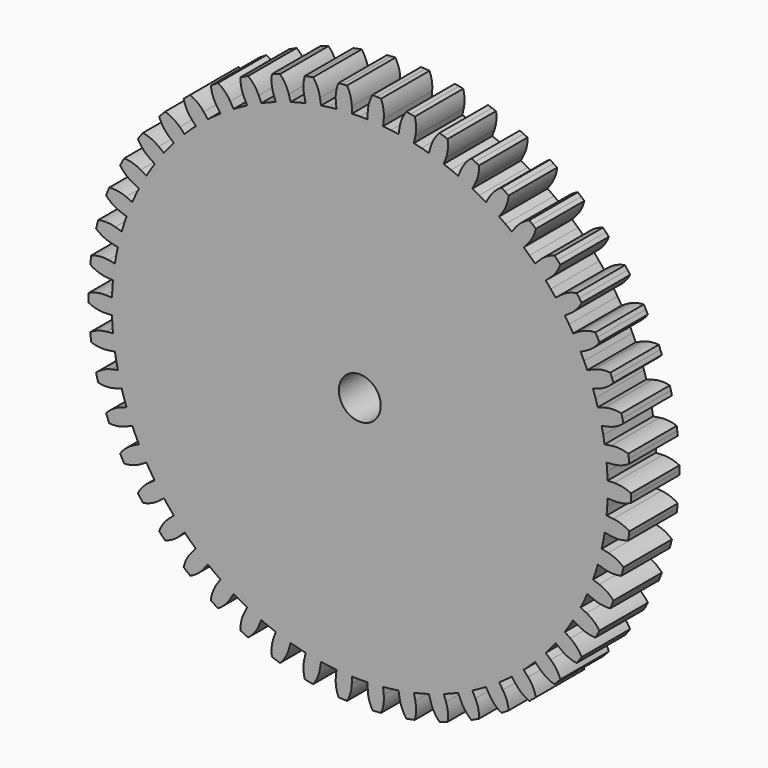
from build123d import *

# Parameters (mm, degrees)
F1_DEPTH = 2.8702


with BuildPart() as f1:
    # F0 (on Front) → F1 (new body, symmetric)
    with BuildSketch(Plane.XZ):
        with BuildLine():
            ThreePointArc((25.7048, 0), (25.704007, 0.201883), (25.701629, 0.403753))
            ThreePointArc((25.701629, 0.403753), (24.932245, 0.680926), (24.118093, 0.757942))
            Line((24.118093, 0.757942), (23.483407, 0.737996))
            ThreePointArc((23.483407, 0.737996), (23.468918, 1.106766), (23.448638, 1.475263))
            Line((23.448638, 1.475263), (1.980459, 0.1246))
            ThreePointArc((1.980459, 0.1246), (1.983396, 0.062331), (1.984375, 0))
            Line((1.984375, 0), (25.7048, 0))
        make_face()
        with BuildLine():
            ThreePointArc((25.701629, -0.403753), (25.704007, -0.201883), (25.7048, 0))
            Line((25.7048, 0), (1.984375, 0))
            ThreePointArc((1.984375, 0), (-1.983396, -0.062331), (1.980459, 0.1246))
            Line((1.980459, 0.1246), (23.448638, 1.475263))
            ThreePointArc((23.448638, 1.475263), (23.422573, 1.843396), (23.390728, 2.211075))
            Line((23.390728, 2.211075), (24.02291, 2.270834))
            ThreePointArc((24.02291, 2.270834), (24.82099, 2.449283), (25.549568, 2.820699))
            ThreePointArc((25.549568, 2.820699), (25.526626, 3.021275), (25.50211, 3.221666))
            ThreePointArc((25.50211, 3.221666), (25.476021, 3.421857), (25.44836, 3.621838))
            ThreePointArc((25.44836, 3.621838), (24.650305, 3.800395), (23.83292, 3.774764))
            Line((23.83292, 3.774764), (23.205738, 3.675428))
            ThreePointArc((23.205738, 3.675428), (23.145144, 4.039474), (23.078839, 4.402524))
            ThreePointArc((23.078839, 4.402524), (23.00684, 4.764488), (22.929164, 5.125275))
            Line((22.929164, 5.125275), (23.548871, 5.263796))
            ThreePointArc((23.548871, 5.263796), (24.318293, 5.540864), (24.994574, 6.000666))
            ThreePointArc((24.994574, 6.000666), (24.946675, 6.196786), (24.897236, 6.392524))
            ThreePointArc((24.897236, 6.392524), (24.846262, 6.587867), (24.793756, 6.782804))
            ThreePointArc((24.793756, 6.782804), (23.979614, 6.859931), (23.171887, 6.732055))
            Line((23.171887, 6.732055), (22.5621, 6.554896))
            ThreePointArc((22.5621, 6.554896), (22.456357, 6.908477), (22.345073, 7.260354))
            ThreePointArc((22.345073, 7.260354), (22.228276, 7.61044), (22.105994, 7.958647))
            Line((22.105994, 7.958647), (22.703453, 8.173746))
            ThreePointArc((22.703453, 8.173746), (23.432081, 8.545063), (24.045402, 9.086))
            ThreePointArc((24.045402, 9.086), (23.9733, 9.27457), (23.899719, 9.462568))
            ThreePointArc((23.899719, 9.462568), (23.824663, 9.649982), (23.748139, 9.836801))
            ThreePointArc((23.748139, 9.836801), (22.93075, 9.81128), (22.145419, 9.583179))
            Line((22.145419, 9.583179), (21.562645, 9.33099))
            ThreePointArc((21.562645, 9.33099), (21.41342, 9.66853), (21.258912, 10.003684))
            ThreePointArc((21.258912, 10.003684), (21.099158, 10.336371), (20.934198, 10.666507))
            Line((20.934198, 10.666507), (21.499987, 10.954791))
            ThreePointArc((21.499987, 10.954791), (22.176332, 11.414501), (22.717019, 12.028042))
            ThreePointArc((22.717019, 12.028042), (22.621851, 12.206089), (22.525288, 12.383382))
            ThreePointArc((22.525288, 12.383382), (22.427335, 12.559911), (22.327999, 12.735666))
            ThreePointArc((22.327999, 12.735666), (21.520255, 12.607901), (20.769705, 12.283169))
            Line((20.769705, 12.283169), (20.223134, 11.959928))
            ThreePointArc((20.223134, 11.959928), (20.032781, 12.276104), (19.837485, 12.589251))
            ThreePointArc((19.837485, 12.589251), (19.637294, 12.899291), (19.432258, 13.206149))
            Line((19.432258, 13.206149), (19.957454, 13.563072))
            ThreePointArc((19.957454, 13.563072), (20.570848, 14.103926), (21.030375, 14.780395))
            ThreePointArc((21.030375, 14.780395), (20.913642, 14.94511), (20.79562, 15.108902))
            ThreePointArc((20.79562, 15.108902), (20.676315, 15.271763), (20.555734, 15.433682))
            ThreePointArc((20.555734, 15.433682), (19.770372, 15.205687), (19.06644, 14.789447))
            Line((19.06644, 14.789447), (18.564692, 14.400251))
            ThreePointArc((18.564692, 14.400251), (18.336212, 14.690076), (18.103209, 14.976277))
            ThreePointArc((18.103209, 14.976277), (17.865738, 15.258782), (17.62386, 15.537522))
            Line((17.62386, 15.537522), (18.10018, 15.957455))
            ThreePointArc((18.10018, 15.957455), (18.640951, 16.570923), (19.012069, 17.299652))
            ThreePointArc((19.012069, 17.299652), (18.875613, 17.448437), (18.737993, 17.596146))
            ThreePointArc((18.737993, 17.596146), (18.599216, 17.74277), (18.459293, 17.888299))
            ThreePointArc((18.459293, 17.888299), (17.708699, 17.56367), (17.062487, 17.062487))
            Line((17.062487, 17.062487), (16.613474, 16.613474))
            ThreePointArc((16.613474, 16.613474), (16.350471, 16.872377), (16.083434, 17.127118))
            ThreePointArc((16.083434, 17.127118), (15.812429, 17.377633), (15.537522, 17.62386))
            Line((15.537522, 17.62386), (15.957455, 18.10018))
            ThreePointArc((15.957455, 18.10018), (16.417074, 18.776587), (16.693932, 19.546083))
            ThreePointArc((16.693932, 19.546083), (16.539904, 19.676593), (16.384856, 19.805889))
            ThreePointArc((16.384856, 19.805889), (16.228797, 19.933963), (16.071737, 20.060808))
            ThreePointArc((16.071737, 20.060808), (15.367749, 19.644664), (14.789447, 19.06644))
            Line((14.789447, 19.06644), (14.400251, 18.564692))
            ThreePointArc((14.400251, 18.564692), (14.106873, 18.788591), (13.810015, 19.007854))
            ThreePointArc((13.810015, 19.007854), (13.509748, 19.222428), (13.206149, 19.432258))
            Line((13.206149, 19.432258), (13.563072, 19.957454))
            ThreePointArc((13.563072, 19.957454), (13.93429, 20.686133), (14.112522, 21.484261))
            ThreePointArc((14.112522, 21.484261), (13.943351, 21.594437), (13.773321, 21.70328))
            ThreePointArc((13.773321, 21.70328), (13.60244, 21.810785), (13.430721, 21.916945))
            ThreePointArc((13.430721, 21.916945), (12.784441, 21.415849), (12.283169, 20.769705))
            Line((12.283169, 20.769705), (11.959928, 20.223134))
            ThreePointArc((11.959928, 20.223134), (11.640801, 20.408497), (11.318803, 20.588825))
            ThreePointArc((11.318803, 20.588825), (10.994011, 20.764073), (10.666507, 20.934198))
            Line((10.666507, 20.934198), (10.954791, 21.499987))
            ThreePointArc((10.954791, 21.499987), (11.231754, 22.269446), (11.308548, 23.083619))
            ThreePointArc((11.308548, 23.083619), (11.126903, 23.171723), (10.944572, 23.258398))
            ThreePointArc((10.944572, 23.258398), (10.761565, 23.343639), (10.577894, 23.427439))
            ThreePointArc((10.577894, 23.427439), (9.999514, 22.849294), (9.583179, 22.145419))
            Line((9.583179, 22.145419), (9.33099, 21.562645))
            ThreePointArc((9.33099, 21.562645), (8.991147, 21.70655), (8.649086, 21.845099))
            ThreePointArc((8.649086, 21.845099), (8.304891, 21.978258), (7.958647, 22.105994))
            Line((7.958647, 22.105994), (8.173746, 22.703453))
            ThreePointArc((8.173746, 22.703453), (8.352086, 23.501557), (8.326232, 24.318935))
            ThreePointArc((8.326232, 24.318935), (8.134977, 24.383578), (7.94322, 24.446718))
            ThreePointArc((7.94322, 24.446718), (7.750973, 24.508349), (7.558248, 24.568468))
            ThreePointArc((7.558248, 24.568468), (7.056889, 23.922392), (6.732055, 23.171887))
            Line((6.732055, 23.171887), (6.554896, 22.5621))
            ThreePointArc((6.554896, 22.5621), (6.199697, 22.662277), (5.842969, 22.756861))
            ThreePointArc((5.842969, 22.756861), (5.484799, 22.845831), (5.125275, 22.929164))
            Line((5.125275, 22.929164), (5.263796, 23.548871))
            ThreePointArc((5.263796, 23.548871), (5.340702, 24.363034), (5.212607, 25.170727))
            ThreePointArc((5.212607, 25.170727), (5.014758, 25.210889), (4.816599, 25.249497))
            ThreePointArc((4.816599, 25.249497), (4.618144, 25.286548), (4.419403, 25.322038))
            ThreePointArc((4.419403, 25.322038), (4.002972, 24.61822), (3.774764, 23.83292))
            Line((3.774764, 23.83292), (3.675428, 23.205738))
            ThreePointArc((3.675428, 23.205738), (3.310474, 23.260606), (2.944704, 23.309735))
            ThreePointArc((2.944704, 23.309735), (2.578208, 23.353113), (2.211075, 23.390728))
            Line((2.211075, 23.390728), (2.270834, 24.02291))
            ThreePointArc((2.270834, 24.02291), (2.245091, 24.840292), (2.016775, 25.625561))
            ThreePointArc((2.016775, 25.625561), (1.815453, 25.64061), (1.614018, 25.654077))
            ThreePointArc((1.614018, 25.654077), (1.412483, 25.665963), (1.210862, 25.676264))
            ThreePointArc((1.210862, 25.676264), (0.885927, 24.925803), (0.757942, 24.118093))
            Line((0.757942, 24.118093), (0.737996, 23.483407))
            ThreePointArc((0.737996, 23.483407), (0.369043, 23.492101), (0, 23.495))
            ThreePointArc((0, 23.495), (-0.369043, 23.492101), (-0.737996, 23.483407))
            Line((-0.737996, 23.483407), (-0.757942, 24.118093))
            ThreePointArc((-0.757942, 24.118093), (-0.885927, 24.925803), (-1.210862, 25.676264))
            ThreePointArc((-1.210862, 25.676264), (-1.412483, 25.665963), (-1.614018, 25.654077))
            ThreePointArc((-1.614018, 25.654077), (-1.815453, 25.64061), (-2.016775, 25.625561))
            ThreePointArc((-2.016775, 25.625561), (-2.245091, 24.840292), (-2.270834, 24.02291))
            Line((-2.270834, 24.02291), (-2.211075, 23.390728))
            ThreePointArc((-2.211075, 23.390728), (-2.578208, 23.353113), (-2.944704, 23.309735))
            ThreePointArc((-2.944704, 23.309735), (-3.310474, 23.260606), (-3.675428, 23.205738))
            Line((-3.675428, 23.205738), (-3.774764, 23.83292))
            ThreePointArc((-3.774764, 23.83292), (-4.002972, 24.61822), (-4.419403, 25.322038))
            ThreePointArc((-4.419403, 25.322038), (-4.618144, 25.286548), (-4.816599, 25.249497))
            ThreePointArc((-4.816599, 25.249497), (-5.014758, 25.210889), (-5.212607, 25.170727))
            ThreePointArc((-5.212607, 25.170727), (-5.340702, 24.363034), (-5.263796, 23.548871))
            Line((-5.263796, 23.548871), (-5.125275, 22.929164))
            ThreePointArc((-5.125275, 22.929164), (-5.484799, 22.845831), (-5.842969, 22.756861))
            ThreePointArc((-5.842969, 22.756861), (-6.199697, 22.662277), (-6.554896, 22.5621))
            Line((-6.554896, 22.5621), (-6.732055, 23.171887))
            ThreePointArc((-6.732055, 23.171887), (-7.056889, 23.922392), (-7.558248, 24.568468))
            ThreePointArc((-7.558248, 24.568468), (-7.750973, 24.508349), (-7.94322, 24.446718))
            ThreePointArc((-7.94322, 24.446718), (-8.134977, 24.383578), (-8.326232, 24.318935))
            ThreePointArc((-8.326232, 24.318935), (-8.352086, 23.501557), (-8.173746, 22.703453))
            Line((-8.173746, 22.703453), (-7.958647, 22.105994))
            ThreePointArc((-7.958647, 22.105994), (-8.304891, 21.978258), (-8.649086, 21.845099))
            ThreePointArc((-8.649086, 21.845099), (-8.991147, 21.70655), (-9.33099, 21.562645))
            Line((-9.33099, 21.562645), (-9.583179, 22.145419))
            ThreePointArc((-9.583179, 22.145419), (-9.999514, 22.849294), (-10.577894, 23.427439))
            ThreePointArc((-10.577894, 23.427439), (-10.761565, 23.343639), (-10.944572, 23.258398))
            ThreePointArc((-10.944572, 23.258398), (-11.126903, 23.171723), (-11.308548, 23.083619))
            ThreePointArc((-11.308548, 23.083619), (-11.231754, 22.269446), (-10.954791, 21.499987))
            Line((-10.954791, 21.499987), (-10.666507, 20.934198))
            ThreePointArc((-10.666507, 20.934198), (-10.994011, 20.764073), (-11.318803, 20.588825))
            ThreePointArc((-11.318803, 20.588825), (-11.640801, 20.408497), (-11.959928, 20.223134))
            Line((-11.959928, 20.223134), (-12.283169, 20.769705))
            ThreePointArc((-12.283169, 20.769705), (-12.784441, 21.415849), (-13.430721, 21.916945))
            ThreePointArc((-13.430721, 21.916945), (-13.60244, 21.810785), (-13.773321, 21.70328))
            ThreePointArc((-13.773321, 21.70328), (-13.943351, 21.594437), (-14.112522, 21.484261))
            ThreePointArc((-14.112522, 21.484261), (-13.93429, 20.686133), (-13.563072, 19.957454))
            Line((-13.563072, 19.957454), (-13.206149, 19.432258))
            ThreePointArc((-13.206149, 19.432258), (-13.509748, 19.222428), (-13.810015, 19.007854))
            ThreePointArc((-13.810015, 19.007854), (-14.106873, 18.788591), (-14.400251, 18.564692))
            Line((-14.400251, 18.564692), (-14.789447, 19.06644))
            ThreePointArc((-14.789447, 19.06644), (-15.367749, 19.644664), (-16.071737, 20.060808))
            ThreePointArc((-16.071737, 20.060808), (-16.228797, 19.933963), (-16.384856, 19.805889))
            ThreePointArc((-16.384856, 19.805889), (-16.539904, 19.676593), (-16.693932, 19.546083))
            ThreePointArc((-16.693932, 19.546083), (-16.417074, 18.776587), (-15.957455, 18.10018))
            Line((-15.957455, 18.10018), (-15.537522, 17.62386))
            ThreePointArc((-15.537522, 17.62386), (-15.812429, 17.377633), (-16.083434, 17.127118))
            ThreePointArc((-16.083434, 17.127118), (-16.350471, 16.872377), (-16.613474, 16.613474))
            Line((-16.613474, 16.613474), (-17.062487, 17.062487))
            ThreePointArc((-17.062487, 17.062487), (-17.708699, 17.56367), (-18.459293, 17.888299))
            ThreePointArc((-18.459293, 17.888299), (-18.599216, 17.74277), (-18.737993, 17.596146))
            ThreePointArc((-18.737993, 17.596146), (-18.875613, 17.448437), (-19.012069, 17.299652))
            ThreePointArc((-19.012069, 17.299652), (-18.640951, 16.570923), (-18.10018, 15.957455))
            Line((-18.10018, 15.957455), (-17.62386, 15.537522))
            ThreePointArc((-17.62386, 15.537522), (-17.865738, 15.258782), (-18.103209, 14.976277))
            ThreePointArc((-18.103209, 14.976277), (-18.336212, 14.690076), (-18.564692, 14.400251))
            Line((-18.564692, 14.400251), (-19.06644, 14.789447))
            ThreePointArc((-19.06644, 14.789447), (-19.770372, 15.205687), (-20.555734, 15.433682))
            ThreePointArc((-20.555734, 15.433682), (-20.676315, 15.271763), (-20.79562, 15.108902))
            ThreePointArc((-20.79562, 15.108902), (-20.913642, 14.94511), (-21.030375, 14.780395))
            ThreePointArc((-21.030375, 14.780395), (-20.570848, 14.103926), (-19.957454, 13.563072))
            Line((-19.957454, 13.563072), (-19.432258, 13.206149))
            ThreePointArc((-19.432258, 13.206149), (-19.637294, 12.899291), (-19.837485, 12.589251))
            ThreePointArc((-19.837485, 12.589251), (-20.032781, 12.276104), (-20.223134, 11.959928))
            Line((-20.223134, 11.959928), (-20.769705, 12.283169))
            ThreePointArc((-20.769705, 12.283169), (-21.520255, 12.607901), (-22.327999, 12.735666))
            ThreePointArc((-22.327999, 12.735666), (-22.427335, 12.559911), (-22.525288, 12.383382))
            ThreePointArc((-22.525288, 12.383382), (-22.621851, 12.206089), (-22.717019, 12.028042))
            ThreePointArc((-22.717019, 12.028042), (-22.176332, 11.414501), (-21.499987, 10.954791))
            Line((-21.499987, 10.954791), (-20.934198, 10.666507))
            ThreePointArc((-20.934198, 10.666507), (-21.099158, 10.336371), (-21.258912, 10.003684))
            ThreePointArc((-21.258912, 10.003684), (-21.41342, 9.66853), (-21.562645, 9.33099))
            Line((-21.562645, 9.33099), (-22.145419, 9.583179))
            ThreePointArc((-22.145419, 9.583179), (-22.93075, 9.81128), (-23.748139, 9.836801))
            ThreePointArc((-23.748139, 9.836801), (-23.824663, 9.649982), (-23.899719, 9.462568))
            ThreePointArc((-23.899719, 9.462568), (-23.9733, 9.27457), (-24.045402, 9.086))
            ThreePointArc((-24.045402, 9.086), (-23.432081, 8.545063), (-22.703453, 8.173746))
            Line((-22.703453, 8.173746), (-22.105994, 7.958647))
            ThreePointArc((-22.105994, 7.958647), (-22.228276, 7.61044), (-22.345073, 7.260354))
            ThreePointArc((-22.345073, 7.260354), (-22.456357, 6.908477), (-22.5621, 6.554896))
            Line((-22.5621, 6.554896), (-23.171887, 6.732055))
            ThreePointArc((-23.171887, 6.732055), (-23.979614, 6.859931), (-24.793756, 6.782804))
            ThreePointArc((-24.793756, 6.782804), (-24.846262, 6.587867), (-24.897236, 6.392524))
            ThreePointArc((-24.897236, 6.392524), (-24.946675, 6.196786), (-24.994574, 6.000666))
            ThreePointArc((-24.994574, 6.000666), (-24.318293, 5.540864), (-23.548871, 5.263796))
            Line((-23.548871, 5.263796), (-22.929164, 5.125275))
            ThreePointArc((-22.929164, 5.125275), (-23.00684, 4.764488), (-23.078839, 4.402524))
            ThreePointArc((-23.078839, 4.402524), (-23.145144, 4.039474), (-23.205738, 3.675428))
            Line((-23.205738, 3.675428), (-23.83292, 3.774764))
            ThreePointArc((-23.83292, 3.774764), (-24.650305, 3.800395), (-25.44836, 3.621838))
            ThreePointArc((-25.44836, 3.621838), (-25.476021, 3.421857), (-25.50211, 3.221666))
            ThreePointArc((-25.50211, 3.221666), (-25.526626, 3.021275), (-25.549568, 2.820699))
            ThreePointArc((-25.549568, 2.820699), (-24.82099, 2.449283), (-24.02291, 2.270834))
            Line((-24.02291, 2.270834), (-23.390728, 2.211075))
            ThreePointArc((-23.390728, 2.211075), (-23.422573, 1.843396), (-23.448638, 1.475263))
            ThreePointArc((-23.448638, 1.475263), (-23.468918, 1.106766), (-23.483407, 0.737996))
            Line((-23.483407, 0.737996), (-24.118093, 0.757942))
            ThreePointArc((-24.118093, 0.757942), (-24.932245, 0.680926), (-25.701629, 0.403753))
            ThreePointArc((-25.701629, 0.403753), (-25.704007, 0.201883), (-25.7048, 0))
            ThreePointArc((-25.7048, 0), (-25.704007, -0.201883), (-25.701629, -0.403753))
            ThreePointArc((-25.701629, -0.403753), (-24.932245, -0.680926), (-24.118093, -0.757942))
            Line((-24.118093, -0.757942), (-23.483407, -0.737996))
            ThreePointArc((-23.483407, -0.737996), (-23.468918, -1.106766), (-23.448638, -1.475263))
            ThreePointArc((-23.448638, -1.475263), (-23.422573, -1.843396), (-23.390728, -2.211075))
            Line((-23.390728, -2.211075), (-24.02291, -2.270834))
            ThreePointArc((-24.02291, -2.270834), (-24.82099, -2.449283), (-25.549568, -2.820699))
            ThreePointArc((-25.549568, -2.820699), (-25.526626, -3.021275), (-25.50211, -3.221666))
            ThreePointArc((-25.50211, -3.221666), (-25.476021, -3.421857), (-25.44836, -3.621838))
            ThreePointArc((-25.44836, -3.621838), (-24.650305, -3.800395), (-23.83292, -3.774764))
            Line((-23.83292, -3.774764), (-23.205738, -3.675428))
            ThreePointArc((-23.205738, -3.675428), (-23.145144, -4.039474), (-23.078839, -4.402524))
            ThreePointArc((-23.078839, -4.402524), (-23.00684, -4.764488), (-22.929164, -5.125275))
            Line((-22.929164, -5.125275), (-23.548871, -5.263796))
            ThreePointArc((-23.548871, -5.263796), (-24.318293, -5.540864), (-24.994574, -6.000666))
            ThreePointArc((-24.994574, -6.000666), (-24.946675, -6.196786), (-24.897236, -6.392524))
            ThreePointArc((-24.897236, -6.392524), (-24.846262, -6.587867), (-24.793756, -6.782804))
            ThreePointArc((-24.793756, -6.782804), (-23.979614, -6.859931), (-23.171887, -6.732055))
            Line((-23.171887, -6.732055), (-22.5621, -6.554896))
            ThreePointArc((-22.5621, -6.554896), (-22.456357, -6.908477), (-22.345073, -7.260354))
            ThreePointArc((-22.345073, -7.260354), (-22.228276, -7.61044), (-22.105994, -7.958647))
            Line((-22.105994, -7.958647), (-22.703453, -8.173746))
            ThreePointArc((-22.703453, -8.173746), (-23.432081, -8.545063), (-24.045402, -9.086))
            ThreePointArc((-24.045402, -9.086), (-23.9733, -9.27457), (-23.899719, -9.462568))
            ThreePointArc((-23.899719, -9.462568), (-23.824663, -9.649982), (-23.748139, -9.836801))
            ThreePointArc((-23.748139, -9.836801), (-22.93075, -9.81128), (-22.145419, -9.583179))
            Line((-22.145419, -9.583179), (-21.562645, -9.33099))
            ThreePointArc((-21.562645, -9.33099), (-21.41342, -9.66853), (-21.258912, -10.003684))
            ThreePointArc((-21.258912, -10.003684), (-21.099158, -10.336371), (-20.934198, -10.666507))
            Line((-20.934198, -10.666507), (-21.499987, -10.954791))
            ThreePointArc((-21.499987, -10.954791), (-22.176332, -11.414501), (-22.717019, -12.028042))
            ThreePointArc((-22.717019, -12.028042), (-22.621851, -12.206089), (-22.525288, -12.383382))
            ThreePointArc((-22.525288, -12.383382), (-22.427335, -12.559911), (-22.327999, -12.735666))
            ThreePointArc((-22.327999, -12.735666), (-21.520255, -12.607901), (-20.769705, -12.283169))
            Line((-20.769705, -12.283169), (-20.223134, -11.959928))
            ThreePointArc((-20.223134, -11.959928), (-20.032781, -12.276104), (-19.837485, -12.589251))
            ThreePointArc((-19.837485, -12.589251), (-19.637294, -12.899291), (-19.432258, -13.206149))
            Line((-19.432258, -13.206149), (-19.957454, -13.563072))
            ThreePointArc((-19.957454, -13.563072), (-20.570848, -14.103926), (-21.030375, -14.780395))
            ThreePointArc((-21.030375, -14.780395), (-20.913642, -14.94511), (-20.79562, -15.108902))
            ThreePointArc((-20.79562, -15.108902), (-20.676315, -15.271763), (-20.555734, -15.433682))
            ThreePointArc((-20.555734, -15.433682), (-19.770372, -15.205687), (-19.06644, -14.789447))
            Line((-19.06644, -14.789447), (-18.564692, -14.400251))
            ThreePointArc((-18.564692, -14.400251), (-18.336212, -14.690076), (-18.103209, -14.976277))
            ThreePointArc((-18.103209, -14.976277), (-17.865738, -15.258782), (-17.62386, -15.537522))
            Line((-17.62386, -15.537522), (-18.10018, -15.957455))
            ThreePointArc((-18.10018, -15.957455), (-18.640951, -16.570923), (-19.012069, -17.299652))
            ThreePointArc((-19.012069, -17.299652), (-18.875613, -17.448437), (-18.737993, -17.596146))
            ThreePointArc((-18.737993, -17.596146), (-18.599216, -17.74277), (-18.459293, -17.888299))
            ThreePointArc((-18.459293, -17.888299), (-17.708699, -17.56367), (-17.062487, -17.062487))
            Line((-17.062487, -17.062487), (-16.613474, -16.613474))
            ThreePointArc((-16.613474, -16.613474), (-16.350471, -16.872377), (-16.083434, -17.127118))
            ThreePointArc((-16.083434, -17.127118), (-15.812429, -17.377633), (-15.537522, -17.62386))
            Line((-15.537522, -17.62386), (-15.957455, -18.10018))
            ThreePointArc((-15.957455, -18.10018), (-16.417074, -18.776587), (-16.693932, -19.546083))
            ThreePointArc((-16.693932, -19.546083), (-16.539904, -19.676593), (-16.384856, -19.805889))
            ThreePointArc((-16.384856, -19.805889), (-16.228797, -19.933963), (-16.071737, -20.060808))
            ThreePointArc((-16.071737, -20.060808), (-15.367749, -19.644664), (-14.789447, -19.06644))
            Line((-14.789447, -19.06644), (-14.400251, -18.564692))
            ThreePointArc((-14.400251, -18.564692), (-14.106873, -18.788591), (-13.810015, -19.007854))
            ThreePointArc((-13.810015, -19.007854), (-13.509748, -19.222428), (-13.206149, -19.432258))
            Line((-13.206149, -19.432258), (-13.563072, -19.957454))
            ThreePointArc((-13.563072, -19.957454), (-13.93429, -20.686133), (-14.112522, -21.484261))
            ThreePointArc((-14.112522, -21.484261), (-13.943351, -21.594437), (-13.773321, -21.70328))
            ThreePointArc((-13.773321, -21.70328), (-13.60244, -21.810785), (-13.430721, -21.916945))
            ThreePointArc((-13.430721, -21.916945), (-12.784441, -21.415849), (-12.283169, -20.769705))
            Line((-12.283169, -20.769705), (-11.959928, -20.223134))
            ThreePointArc((-11.959928, -20.223134), (-11.640801, -20.408497), (-11.318803, -20.588825))
            ThreePointArc((-11.318803, -20.588825), (-10.994011, -20.764073), (-10.666507, -20.934198))
            Line((-10.666507, -20.934198), (-10.954791, -21.499987))
            ThreePointArc((-10.954791, -21.499987), (-11.231754, -22.269446), (-11.308548, -23.083619))
            ThreePointArc((-11.308548, -23.083619), (-11.126903, -23.171723), (-10.944572, -23.258398))
            ThreePointArc((-10.944572, -23.258398), (-10.761565, -23.343639), (-10.577894, -23.427439))
            ThreePointArc((-10.577894, -23.427439), (-9.999514, -22.849294), (-9.583179, -22.145419))
            Line((-9.583179, -22.145419), (-9.33099, -21.562645))
            ThreePointArc((-9.33099, -21.562645), (-8.991147, -21.70655), (-8.649086, -21.845099))
            ThreePointArc((-8.649086, -21.845099), (-8.304891, -21.978258), (-7.958647, -22.105994))
            Line((-7.958647, -22.105994), (-8.173746, -22.703453))
            ThreePointArc((-8.173746, -22.703453), (-8.352086, -23.501557), (-8.326232, -24.318935))
            ThreePointArc((-8.326232, -24.318935), (-8.134977, -24.383578), (-7.94322, -24.446718))
            ThreePointArc((-7.94322, -24.446718), (-7.750973, -24.508349), (-7.558248, -24.568468))
            ThreePointArc((-7.558248, -24.568468), (-7.056889, -23.922392), (-6.732055, -23.171887))
            Line((-6.732055, -23.171887), (-6.554896, -22.5621))
            ThreePointArc((-6.554896, -22.5621), (-6.199697, -22.662277), (-5.842969, -22.756861))
            ThreePointArc((-5.842969, -22.756861), (-5.484799, -22.845831), (-5.125275, -22.929164))
            Line((-5.125275, -22.929164), (-5.263796, -23.548871))
            ThreePointArc((-5.263796, -23.548871), (-5.340702, -24.363034), (-5.212607, -25.170727))
            ThreePointArc((-5.212607, -25.170727), (-5.014758, -25.210889), (-4.816599, -25.249497))
            ThreePointArc((-4.816599, -25.249497), (-4.618144, -25.286548), (-4.419403, -25.322038))
            ThreePointArc((-4.419403, -25.322038), (-4.002972, -24.61822), (-3.774764, -23.83292))
            Line((-3.774764, -23.83292), (-3.675428, -23.205738))
            ThreePointArc((-3.675428, -23.205738), (-3.310474, -23.260606), (-2.944704, -23.309735))
            ThreePointArc((-2.944704, -23.309735), (-2.578208, -23.353113), (-2.211075, -23.390728))
            Line((-2.211075, -23.390728), (-2.270834, -24.02291))
            ThreePointArc((-2.270834, -24.02291), (-2.245091, -24.840292), (-2.016775, -25.625561))
            ThreePointArc((-2.016775, -25.625561), (-1.815453, -25.64061), (-1.614018, -25.654077))
            ThreePointArc((-1.614018, -25.654077), (-1.412483, -25.665963), (-1.210862, -25.676264))
            ThreePointArc((-1.210862, -25.676264), (-0.885927, -24.925803), (-0.757942, -24.118093))
            Line((-0.757942, -24.118093), (-0.737996, -23.483407))
            ThreePointArc((-0.737996, -23.483407), (-0.369043, -23.492101), (0, -23.495))
            ThreePointArc((0, -23.495), (0.369043, -23.492101), (0.737996, -23.483407))
            Line((0.737996, -23.483407), (0.757942, -24.118093))
            ThreePointArc((0.757942, -24.118093), (0.885927, -24.925803), (1.210862, -25.676264))
            ThreePointArc((1.210862, -25.676264), (1.412483, -25.665963), (1.614018, -25.654077))
            ThreePointArc((1.614018, -25.654077), (1.815453, -25.64061), (2.016775, -25.625561))
            ThreePointArc((2.016775, -25.625561), (2.245091, -24.840292), (2.270834, -24.02291))
            Line((2.270834, -24.02291), (2.211075, -23.390728))
            ThreePointArc((2.211075, -23.390728), (2.578208, -23.353113), (2.944704, -23.309735))
            ThreePointArc((2.944704, -23.309735), (3.310474, -23.260606), (3.675428, -23.205738))
            Line((3.675428, -23.205738), (3.774764, -23.83292))
            ThreePointArc((3.774764, -23.83292), (4.002972, -24.61822), (4.419403, -25.322038))
            ThreePointArc((4.419403, -25.322038), (4.618144, -25.286548), (4.816599, -25.249497))
            ThreePointArc((4.816599, -25.249497), (5.014758, -25.210889), (5.212607, -25.170727))
            ThreePointArc((5.212607, -25.170727), (5.340702, -24.363034), (5.263796, -23.548871))
            Line((5.263796, -23.548871), (5.125275, -22.929164))
            ThreePointArc((5.125275, -22.929164), (5.484799, -22.845831), (5.842969, -22.756861))
            ThreePointArc((5.842969, -22.756861), (6.199697, -22.662277), (6.554896, -22.5621))
            Line((6.554896, -22.5621), (6.732055, -23.171887))
            ThreePointArc((6.732055, -23.171887), (7.056889, -23.922392), (7.558248, -24.568468))
            ThreePointArc((7.558248, -24.568468), (7.750973, -24.508349), (7.94322, -24.446718))
            ThreePointArc((7.94322, -24.446718), (8.134977, -24.383578), (8.326232, -24.318935))
            ThreePointArc((8.326232, -24.318935), (8.352086, -23.501557), (8.173746, -22.703453))
            Line((8.173746, -22.703453), (7.958647, -22.105994))
            ThreePointArc((7.958647, -22.105994), (8.304891, -21.978258), (8.649086, -21.845099))
            ThreePointArc((8.649086, -21.845099), (8.991147, -21.70655), (9.33099, -21.562645))
            Line((9.33099, -21.562645), (9.583179, -22.145419))
            ThreePointArc((9.583179, -22.145419), (9.999514, -22.849294), (10.577894, -23.427439))
            ThreePointArc((10.577894, -23.427439), (10.761565, -23.343639), (10.944572, -23.258398))
            ThreePointArc((10.944572, -23.258398), (11.126903, -23.171723), (11.308548, -23.083619))
            ThreePointArc((11.308548, -23.083619), (11.231754, -22.269446), (10.954791, -21.499987))
            Line((10.954791, -21.499987), (10.666507, -20.934198))
            ThreePointArc((10.666507, -20.934198), (10.994011, -20.764073), (11.318803, -20.588825))
            ThreePointArc((11.318803, -20.588825), (11.640801, -20.408497), (11.959928, -20.223134))
            Line((11.959928, -20.223134), (12.283169, -20.769705))
            ThreePointArc((12.283169, -20.769705), (12.784441, -21.415849), (13.430721, -21.916945))
            ThreePointArc((13.430721, -21.916945), (13.60244, -21.810785), (13.773321, -21.70328))
            ThreePointArc((13.773321, -21.70328), (13.943351, -21.594437), (14.112522, -21.484261))
            ThreePointArc((14.112522, -21.484261), (13.93429, -20.686133), (13.563072, -19.957454))
            Line((13.563072, -19.957454), (13.206149, -19.432258))
            ThreePointArc((13.206149, -19.432258), (13.509748, -19.222428), (13.810015, -19.007854))
            ThreePointArc((13.810015, -19.007854), (14.106873, -18.788591), (14.400251, -18.564692))
            Line((14.400251, -18.564692), (14.789447, -19.06644))
            ThreePointArc((14.789447, -19.06644), (15.367749, -19.644664), (16.071737, -20.060808))
            ThreePointArc((16.071737, -20.060808), (16.228797, -19.933963), (16.384856, -19.805889))
            ThreePointArc((16.384856, -19.805889), (16.539904, -19.676593), (16.693932, -19.546083))
            ThreePointArc((16.693932, -19.546083), (16.417074, -18.776587), (15.957455, -18.10018))
            Line((15.957455, -18.10018), (15.537522, -17.62386))
            ThreePointArc((15.537522, -17.62386), (15.812429, -17.377633), (16.083434, -17.127118))
            ThreePointArc((16.083434, -17.127118), (16.350471, -16.872377), (16.613474, -16.613474))
            Line((16.613474, -16.613474), (17.062487, -17.062487))
            ThreePointArc((17.062487, -17.062487), (17.708699, -17.56367), (18.459293, -17.888299))
            ThreePointArc((18.459293, -17.888299), (18.599216, -17.74277), (18.737993, -17.596146))
            ThreePointArc((18.737993, -17.596146), (18.875613, -17.448437), (19.012069, -17.299652))
            ThreePointArc((19.012069, -17.299652), (18.640951, -16.570923), (18.10018, -15.957455))
            Line((18.10018, -15.957455), (17.62386, -15.537522))
            ThreePointArc((17.62386, -15.537522), (17.865738, -15.258782), (18.103209, -14.976277))
            ThreePointArc((18.103209, -14.976277), (18.336212, -14.690076), (18.564692, -14.400251))
            Line((18.564692, -14.400251), (19.06644, -14.789447))
            ThreePointArc((19.06644, -14.789447), (19.770372, -15.205687), (20.555734, -15.433682))
            ThreePointArc((20.555734, -15.433682), (20.676315, -15.271763), (20.79562, -15.108902))
            ThreePointArc((20.79562, -15.108902), (20.913642, -14.94511), (21.030375, -14.780395))
            ThreePointArc((21.030375, -14.780395), (20.570848, -14.103926), (19.957454, -13.563072))
            Line((19.957454, -13.563072), (19.432258, -13.206149))
            ThreePointArc((19.432258, -13.206149), (19.637294, -12.899291), (19.837485, -12.589251))
            ThreePointArc((19.837485, -12.589251), (20.032781, -12.276104), (20.223134, -11.959928))
            Line((20.223134, -11.959928), (20.769705, -12.283169))
            ThreePointArc((20.769705, -12.283169), (21.520255, -12.607901), (22.327999, -12.735666))
            ThreePointArc((22.327999, -12.735666), (22.427335, -12.559911), (22.525288, -12.383382))
            ThreePointArc((22.525288, -12.383382), (22.621851, -12.206089), (22.717019, -12.028042))
            ThreePointArc((22.717019, -12.028042), (22.176332, -11.414501), (21.499987, -10.954791))
            Line((21.499987, -10.954791), (20.934198, -10.666507))
            ThreePointArc((20.934198, -10.666507), (21.099158, -10.336371), (21.258912, -10.003684))
            ThreePointArc((21.258912, -10.003684), (21.41342, -9.66853), (21.562645, -9.33099))
            Line((21.562645, -9.33099), (22.145419, -9.583179))
            ThreePointArc((22.145419, -9.583179), (22.93075, -9.81128), (23.748139, -9.836801))
            ThreePointArc((23.748139, -9.836801), (23.824663, -9.649982), (23.899719, -9.462568))
            ThreePointArc((23.899719, -9.462568), (23.9733, -9.27457), (24.045402, -9.086))
            ThreePointArc((24.045402, -9.086), (23.432081, -8.545063), (22.703453, -8.173746))
            Line((22.703453, -8.173746), (22.105994, -7.958647))
            ThreePointArc((22.105994, -7.958647), (22.228276, -7.61044), (22.345073, -7.260354))
            ThreePointArc((22.345073, -7.260354), (22.456357, -6.908477), (22.5621, -6.554896))
            Line((22.5621, -6.554896), (23.171887, -6.732055))
            ThreePointArc((23.171887, -6.732055), (23.979614, -6.859931), (24.793756, -6.782804))
            ThreePointArc((24.793756, -6.782804), (24.846262, -6.587867), (24.897236, -6.392524))
            ThreePointArc((24.897236, -6.392524), (24.946675, -6.196786), (24.994574, -6.000666))
            ThreePointArc((24.994574, -6.000666), (24.318293, -5.540864), (23.548871, -5.263796))
            Line((23.548871, -5.263796), (22.929164, -5.125275))
            ThreePointArc((22.929164, -5.125275), (23.00684, -4.764488), (23.078839, -4.402524))
            ThreePointArc((23.078839, -4.402524), (23.145144, -4.039474), (23.205738, -3.675428))
            Line((23.205738, -3.675428), (23.83292, -3.774764))
            ThreePointArc((23.83292, -3.774764), (24.650305, -3.800395), (25.44836, -3.621838))
            ThreePointArc((25.44836, -3.621838), (25.476021, -3.421857), (25.50211, -3.221666))
            ThreePointArc((25.50211, -3.221666), (25.526626, -3.021275), (25.549568, -2.820699))
            ThreePointArc((25.549568, -2.820699), (24.82099, -2.449283), (24.02291, -2.270834))
            Line((24.02291, -2.270834), (23.390728, -2.211075))
            ThreePointArc((23.390728, -2.211075), (23.422573, -1.843396), (23.448638, -1.475263))
            ThreePointArc((23.448638, -1.475263), (23.468918, -1.106766), (23.483407, -0.737996))
            Line((23.483407, -0.737996), (24.118093, -0.757942))
            ThreePointArc((24.118093, -0.757942), (24.932245, -0.680926), (25.701629, -0.403753))
        make_face()
    extrude(amount=F1_DEPTH, both=True)


solid = f1.part
